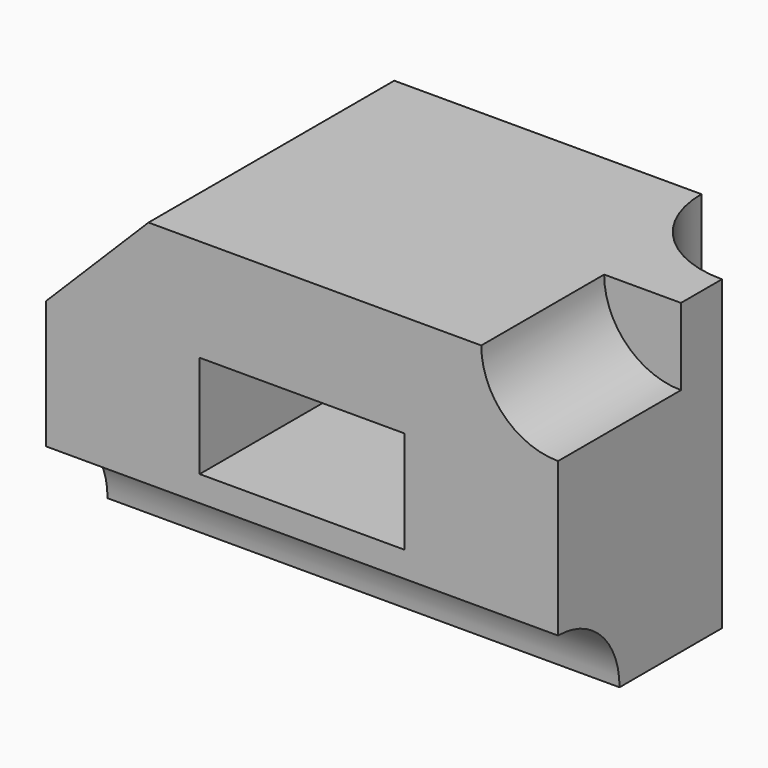
from build123d import *

# Parameters (mm, degrees)
F0_W      = 50
F0_H      = 30
F1_DEPTH  = 30
F3_DEPTH  = 30.001
F4_W      = 20
F4_H      = 10
F5_DEPTH  = 20
F7_DEPTH  = 30.001
F9_DEPTH  = 50.001
F11_DEPTH = 15


with BuildPart() as f1:
    # F0 (on Front) → F1 (new body)
    with BuildSketch(Plane.XZ):
        with Locations((-25, 15)):
            Rectangle(F0_W, F0_H)
    extrude(amount=F1_DEPTH)

    # F2 (on face) → F3 (cut, through all)
    with BuildSketch(Plane.XZ.offset(30)):
        Polygon((-40, 30), (-50, 30), (-50, 20), align=None)
    extrude(amount=-F3_DEPTH, mode=Mode.SUBTRACT)

    # F4 (on face) → F5 (cut)
    with BuildSketch(Plane.XZ.offset(30)):
        with Locations((-25, 15)):
            Rectangle(F4_W, F4_H)
    extrude(amount=-F5_DEPTH, mode=Mode.SUBTRACT)

    # F6 (on face) → F7 (cut, through all)
    with BuildSketch(Plane.XY.offset(30)):
        with BuildLine():
            Line((0, 0), (-10, 0))
            ThreePointArc((-10, 0), (-7.0710678119, -7.0710678119), (0, -10))
            Line((0, -10), (0, 0))
        make_face()
    extrude(amount=-F7_DEPTH, mode=Mode.SUBTRACT)

    # F8 (on face) → F9 (cut, through all)
    with BuildSketch(Plane.YZ):
        with BuildLine():
            Line((-30, 0), (-22.5, 0))
            ThreePointArc((-22.5, 0), (-24.6966991411, 5.3033008589), (-30, 7.5))
            Line((-30, 7.5), (-30, 0))
        make_face()
    extrude(amount=-F9_DEPTH, mode=Mode.SUBTRACT)

    # F10 (on face) → F11 (cut)
    with BuildSketch(Plane.XZ.offset(30)):
        with BuildLine():
            Line((0, 30), (-7.5, 30))
            ThreePointArc((-7.5, 30), (-5.3033008589, 24.6966991411), (0, 22.5))
            Line((0, 22.5), (0, 30))
        make_face()
    extrude(amount=-F11_DEPTH, mode=Mode.SUBTRACT)


solid = f1.part
